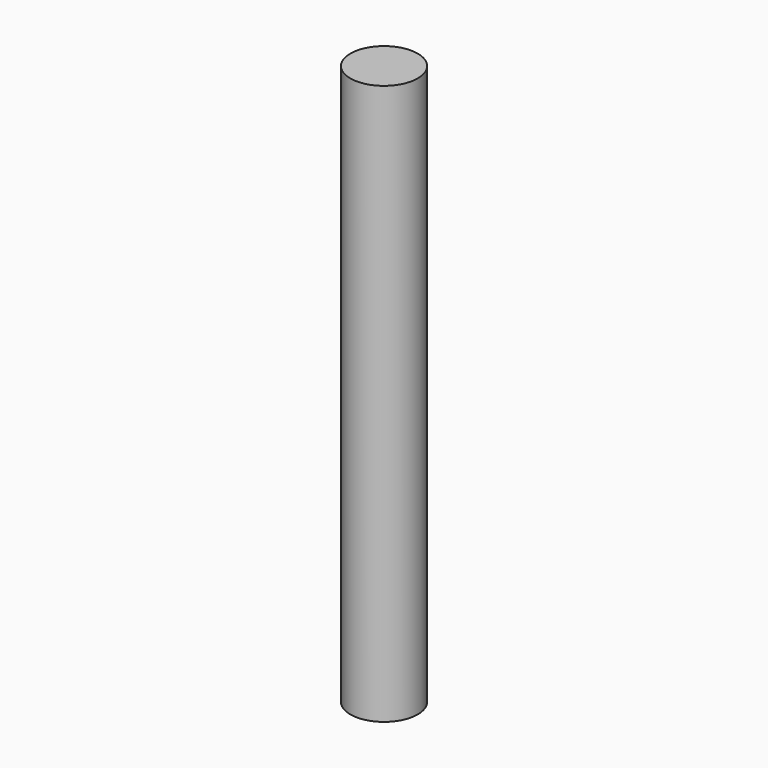
from build123d import *

# Parameters (mm, degrees)
CYLINDER_R     = 0.9017
CYLINDER_DEPTH = 15


with BuildPart() as part:
    # Cylinder → Cylinder (new body)
    with BuildSketch(Plane.XY.offset(-2.5)):
        Circle(CYLINDER_R)
    extrude(amount=CYLINDER_DEPTH)


solid = part.part
